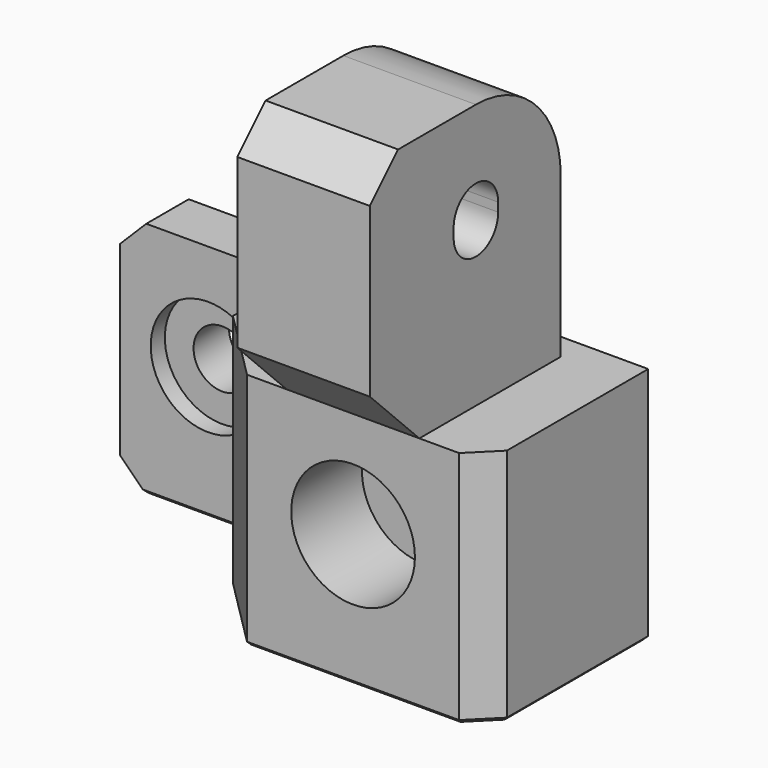
from build123d import *

# Parameters (mm, degrees)
CYLINDER007_R         = 3.15
CYLINDER007_DEPTH     = 20
CYLINDER006_R         = 3.15
CYLINDER006_DEPTH     = 20
BOX010_W              = 20
BOX010_H              = 6.3
BOX010_DEPTH          = 1
BOX006_W              = 15
BOX006_H              = 27
BOX006_DEPTH          = 30
CHAMFER002001002_SIZE = 7
FILLET_R              = 12
CHAMFER002001003_SIZE = 4
CYLINDER009_R         = 6.5
CYLINDER009_DEPTH     = 19
CYLINDER008_R         = 3.25
CYLINDER008_DEPTH     = 19
CYLINDER004_R         = 3.15
CYLINDER004_DEPTH     = 36
CYLINDER005_R         = 7
CYLINDER005_DEPTH     = 36
BOX008_W              = 7.8
BOX008_H              = 1
BOX008_DEPTH          = 27
BOX009_W              = 24.5
BOX009_H              = 2
BOX009_DEPTH          = 7.3
CHAMFER002001008_SIZE = 1
BOX011_W              = 33
BOX011_H              = 3.5
BOX011_DEPTH          = 8
BOX012_W              = 20
BOX012_H              = 6
BOX012_DEPTH          = 27
CHAMFER002001007_SIZE = 3
BOX007_W              = 35
BOX007_H              = 23
BOX007_DEPTH          = 27
CHAMFER002001005_SIZE = 3
CHAMFER002001006_SIZE = 8
CHAMFER002001009_SIZE = 3.49
CHAMFER002001010_SIZE = 0.4


with BuildPart() as cylinder007:
    # Cylinder007 → Cylinder007 (new body)
    with BuildSketch(Plane(origin=(0, 0, 1), x_dir=(0, 0, 1), z_dir=(-1, 0, 0))):
        Circle(CYLINDER007_R)
    extrude(amount=CYLINDER007_DEPTH)


with BuildPart() as cylinder006:
    # Cylinder006 → Cylinder006 (new body)
    with BuildSketch(Plane.ZY):
        Circle(CYLINDER006_R)
    extrude(amount=CYLINDER006_DEPTH)


with BuildPart() as fusion003004:
    # Box010 → Box010 (new body)
    with BuildSketch(Plane(origin=(-20, -3.15, 0), x_dir=(1, 0, 0), z_dir=(0, 0, 1))):
        with Locations((10, 3.15)):
            Rectangle(BOX010_W, BOX010_H)
    extrude(amount=BOX010_DEPTH)

    # Fusion003004: union Cylinder007, Cylinder006
    add(cylinder007.part)
    add(cylinder006.part)


with BuildPart() as fusion003004_1:
    # Fusion003004 placement: moved
    add(fusion003004.part.moved(Location((25, 0, 45))))


with BuildPart() as cut004:
    # Box006 → Box006 (new body)
    with BuildSketch(Plane(origin=(7.5, -15, 27), x_dir=(1, 0, 0), z_dir=(0, 0, 1))):
        with Locations((7.5, 13.5)):
            Rectangle(BOX006_W, BOX006_H)
    extrude(amount=BOX006_DEPTH)

    # Chamfer002001002
    chamfer002001002_edges = [cut004.edges().sort_by_distance(p)[0] for p in [
        (15, -15, 27),
    ]]
    chamfer(chamfer002001002_edges, length=CHAMFER002001002_SIZE)

    # Fillet
    fillet_edges = [cut004.edges().sort_by_distance(p)[0] for p in [
        (15, 12, 57),
    ]]
    fillet(fillet_edges, radius=FILLET_R)

    # Chamfer002001003
    chamfer002001003_edges = [cut004.edges().sort_by_distance(p)[0] for p in [
        (15, -15, 57),
    ]]
    chamfer(chamfer002001003_edges, length=CHAMFER002001003_SIZE)

    # Cut004: cut Fusion003004
    add(fusion003004_1.part, mode=Mode.SUBTRACT)


with BuildPart() as cylinder009:
    # Cylinder009 → Cylinder009 (new body)
    with BuildSketch(Plane(origin=(-15, -8, 15), x_dir=(1, 0, 0), z_dir=(0, 1, 0))):
        Circle(CYLINDER009_R)
    extrude(amount=CYLINDER009_DEPTH)


with BuildPart() as cylinder008:
    # Cylinder008 → Cylinder008 (new body)
    with BuildSketch(Plane(origin=(-15, 0, 15), x_dir=(1, 0, 0), z_dir=(0, 1, 0))):
        Circle(CYLINDER008_R)
    extrude(amount=CYLINDER008_DEPTH)


with BuildPart() as cylinder004:
    # Cylinder004 → Cylinder004 (new body)
    with BuildSketch(Plane(origin=(15, -15, 15), x_dir=(1, 0, 0), z_dir=(0, 1, 0))):
        Circle(CYLINDER004_R)
    extrude(amount=CYLINDER004_DEPTH)


with BuildPart() as fusion003008:
    # Cylinder005 → Cylinder005 (new body)
    with BuildSketch(Plane(origin=(15, -34, 15), x_dir=(1, 0, 0), z_dir=(0, 1, 0))):
        Circle(CYLINDER005_R)
    extrude(amount=CYLINDER005_DEPTH)

    # Fusion003008: union Cylinder004
    add(cylinder004.part)


with BuildPart() as cube008:
    # Box008 → Box008 (new body)
    with BuildSketch(Plane(origin=(11.1, 15, 0), x_dir=(1, 0, 0), z_dir=(0, 0, 1))):
        with Locations((3.9, 0.5)):
            Rectangle(BOX008_W, BOX008_H)
    extrude(amount=BOX008_DEPTH)


with BuildPart() as fusion003010:
    # Box009 → Box009 (new body)
    with BuildSketch(Plane(origin=(-25, 14, 11.6), x_dir=(1, 0, 0), z_dir=(0, 0, 1))):
        with Locations((12.25, 1)):
            Rectangle(BOX009_W, BOX009_H)
    extrude(amount=BOX009_DEPTH)

    # Chamfer002001008
    chamfer002001008_edges = [fusion003010.edges().sort_by_distance(p)[0] for p in [
        (-12.75, 16, 11.6),
    ]]
    chamfer(chamfer002001008_edges, length=CHAMFER002001008_SIZE)

    # Fusion003010: union Cube008
    add(cube008.part)


with BuildPart() as cube011:
    # Box011 → Box011 (new body)
    with BuildSketch(Plane(origin=(-25, 11.5, 0), x_dir=(1, 0, 0), z_dir=(0, 0, 1))):
        with Locations((16.5, 1.75)):
            Rectangle(BOX011_W, BOX011_H)
    extrude(amount=BOX011_DEPTH)


with BuildPart() as chamfer002001007:
    # Box012 → Box012 (new body)
    with BuildSketch(Plane(origin=(-25, 9, 0), x_dir=(1, 0, 0), z_dir=(0, 0, 1))):
        with Locations((10, 3)):
            Rectangle(BOX012_W, BOX012_H)
    extrude(amount=BOX012_DEPTH)

    # Chamfer002001007
    chamfer002001007_edges = [chamfer002001007.edges().sort_by_distance(p)[0] for p in [
        (-25, 12, 27),
        (-25, 12, 0),
    ]]
    chamfer(chamfer002001007_edges, length=CHAMFER002001007_SIZE)


with BuildPart() as chamfer002001010:
    # Box007 → Box007 (new body)
    with BuildSketch(Plane(origin=(-5, -8, 0), x_dir=(1, 0, 0), z_dir=(0, 0, 1))):
        with Locations((17.5, 11.5)):
            Rectangle(BOX007_W, BOX007_H)
    extrude(amount=BOX007_DEPTH)

    # Chamfer002001005
    chamfer002001005_edges = [chamfer002001010.edges().sort_by_distance(p)[0] for p in [
        (30, -8, 13.5),
    ]]
    chamfer(chamfer002001005_edges, length=CHAMFER002001005_SIZE)

    # Chamfer002001006
    chamfer002001006_edges = [chamfer002001010.edges().sort_by_distance(p)[0] for p in [
        (-5, -8, 13.5),
    ]]
    chamfer(chamfer002001006_edges, length=CHAMFER002001006_SIZE)

    # Fusion003009: union Chamfer002001007
    add(chamfer002001007.part)

    # Cut005: cut Cube011
    add(cube011.part, mode=Mode.SUBTRACT)

    # Chamfer002001009
    chamfer002001009_edges = [chamfer002001010.edges().sort_by_distance(p)[0] for p in [
        (1.5, 15, 8),
    ]]
    chamfer(chamfer002001009_edges, length=CHAMFER002001009_SIZE)

    # Fusion003011: union Fusion003010
    add(fusion003010.part)

    # Cut006: cut Fusion003008
    add(fusion003008.part, mode=Mode.SUBTRACT)

    # Cut007: cut Cylinder008
    add(cylinder008.part, mode=Mode.SUBTRACT)

    # Cut008: cut Cylinder009
    add(cylinder009.part, mode=Mode.SUBTRACT)

    # Fusion003012: union Cut004
    add(cut004.part)

    # Chamfer002001010
    chamfer002001010_edges = [chamfer002001010.edges().sort_by_distance(p)[0] for p in [
        (8, 13.25, 0),
        (-7, 11.5, 0),
        (-13.5, 9, 0),
        (24.45, 15, 0),
        (30, 5, 0),
        (28.5, -6.5, 0),
        (15, -8, 0),
        (-1, -4, 0),
        (-5, 4.5, 0),
        (18.9, 15.5, 0),
        (11.1, 15.5, 0),
        (15, 16, 0),
        (9.55, 15, 0),
    ]]
    chamfer(chamfer002001010_edges, length=CHAMFER002001010_SIZE)


solid = chamfer002001010.part
